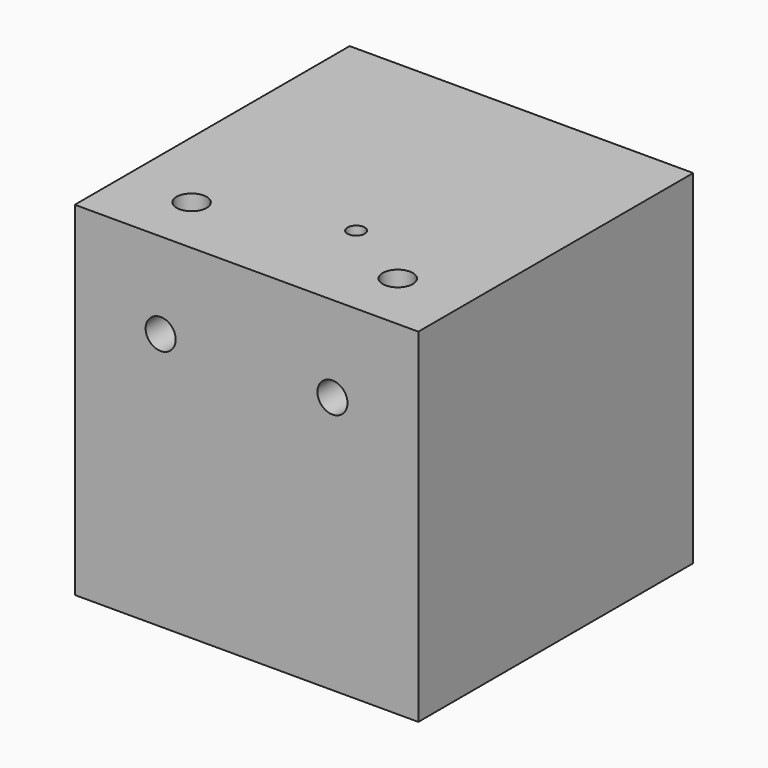
from build123d import *

# Parameters (mm, degrees)
F2_DEPTH = 20
F3_DEPTH = 20


with BuildPart() as f2:
    # F1 (on Front) → F2 (new body, symmetric)
    with BuildSketch(Plane.XZ):
        with BuildLine():
            Line((-11.75, 10), (-20, 10))
            Line((-20, 10), (-20, -20))
            Line((-20, -20), (20, -20))
            Line((20, -20), (20, 10))
            Line((20, 10), (11.75, 10))
            ThreePointArc((11.75, 10), (10, 8.25), (8.25, 10))
            Line((8.25, 10), (-8.25, 10))
            ThreePointArc((-8.25, 10), (-10, 8.25), (-11.75, 10))
        make_face()
        with BuildLine():
            Line((20, 20), (-20, 20))
            Line((-20, 20), (-20, 10))
            Line((-20, 10), (-11.75, 10))
            ThreePointArc((-11.75, 10), (-10, 11.75), (-8.25, 10))
            Line((-8.25, 10), (8.25, 10))
            ThreePointArc((8.25, 10), (10, 11.75), (11.75, 10))
            Line((11.75, 10), (20, 10))
            Line((20, 10), (20, 20))
        make_face()
    extrude(amount=F2_DEPTH, both=True)

    # F0 (on Top) → F3 (cut, symmetric)
    with BuildSketch(Plane.XY):
        with BuildLine():
            ThreePointArc((-10.25, -13), (-12, -11.25), (-13.75, -13))
            Line((-13.75, -13), (-10.25, -13))
        make_face()
        with BuildLine():
            Line((-10.25, -13), (-13.75, -13))
            ThreePointArc((-13.75, -13), (-12, -14.75), (-10.25, -13))
        make_face()
        with BuildLine():
            Line((10.25, -13), (13.75, -13))
            ThreePointArc((13.75, -13), (12, -11.25), (10.25, -13))
        make_face()
        with BuildLine():
            ThreePointArc((10.25, -13), (12, -14.75), (13.75, -13))
            Line((13.75, -13), (10.25, -13))
        make_face()
        with BuildLine():
            ThreePointArc((4.1555385794, -8), (3.1555385794, -7), (2.1555385794, -8))
            Line((2.1555385794, -8), (4.1555385794, -8))
        make_face()
        with BuildLine():
            Line((4.1555385794, -8), (2.1555385794, -8))
            ThreePointArc((2.1555385794, -8), (3.1555385794, -9), (4.1555385794, -8))
        make_face()
    extrude(amount=F3_DEPTH, both=True, mode=Mode.SUBTRACT)


solid = f2.part
